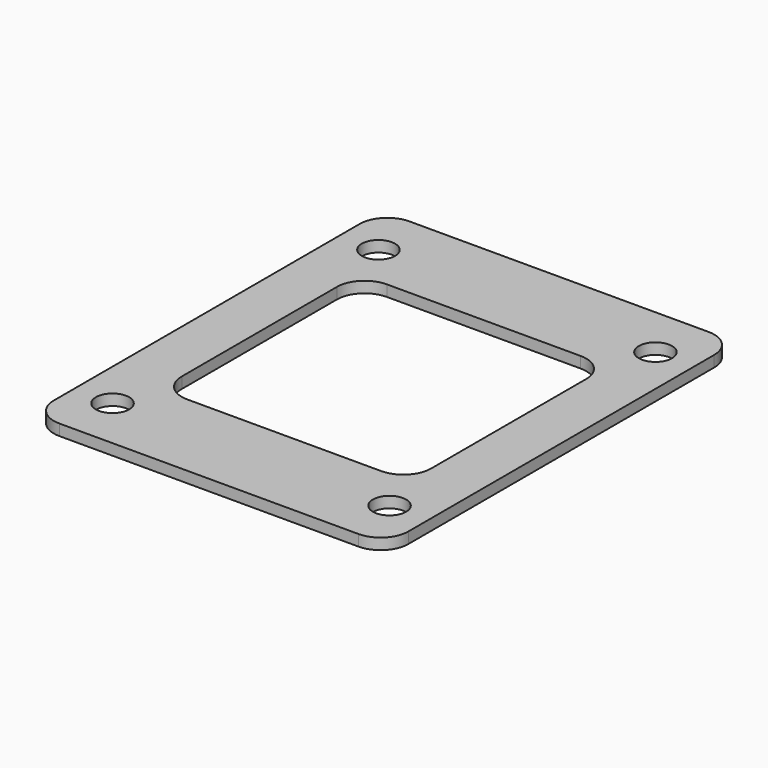
from build123d import *

# Parameters (mm, degrees)
F0_W     = 64
F0_H     = 79
F0_W_2   = 50
F0_H_2   = 60
F1_DEPTH = 2
F2_D     = 6
F3_R     = 5
F4_W     = 45
F4_H     = 45
F5_DEPTH = 25
F6_R     = 5


with BuildPart() as f1:
    # F0 (on Top) → F1 (new body)
    with BuildSketch(Plane.XY):
        Rectangle(F0_W, F0_H)
        Rectangle(F0_W_2, F0_H_2, mode=Mode.SUBTRACT)
        Rectangle(F0_W_2, F0_H_2)
    extrude(amount=F1_DEPTH)

    # F2 (through all)
    with Locations(Plane(origin=(0, 0, 0), x_dir=(1, 0, 0), z_dir=(0, 0, -1))):
        with Locations((25, 30), (-25, 30), (-25, -30), (25, -30)):
            Hole(F2_D / 2)

    # F3
    f3_edges = [f1.edges().sort_by_distance(p)[0] for p in [
        (-32, -39.5, 1),
        (32, -39.5, 1),
        (-32, 39.5, 1),
        (32, 39.5, 1),
    ]]
    fillet(f3_edges, radius=F3_R)

    # F4 (on face) → F5 (cut)
    with BuildSketch(Plane.XY.offset(2)):
        Rectangle(F4_W, F4_H)
    extrude(amount=-F5_DEPTH, mode=Mode.SUBTRACT)

    # F6
    f6_edges = [f1.edges().sort_by_distance(p)[0] for p in [
        (-22.5, 22.5, 1),
        (22.5, 22.5, 1),
        (22.5, -22.5, 1),
        (-22.5, -22.5, 1),
    ]]
    fillet(f6_edges, radius=F6_R)


solid = f1.part
